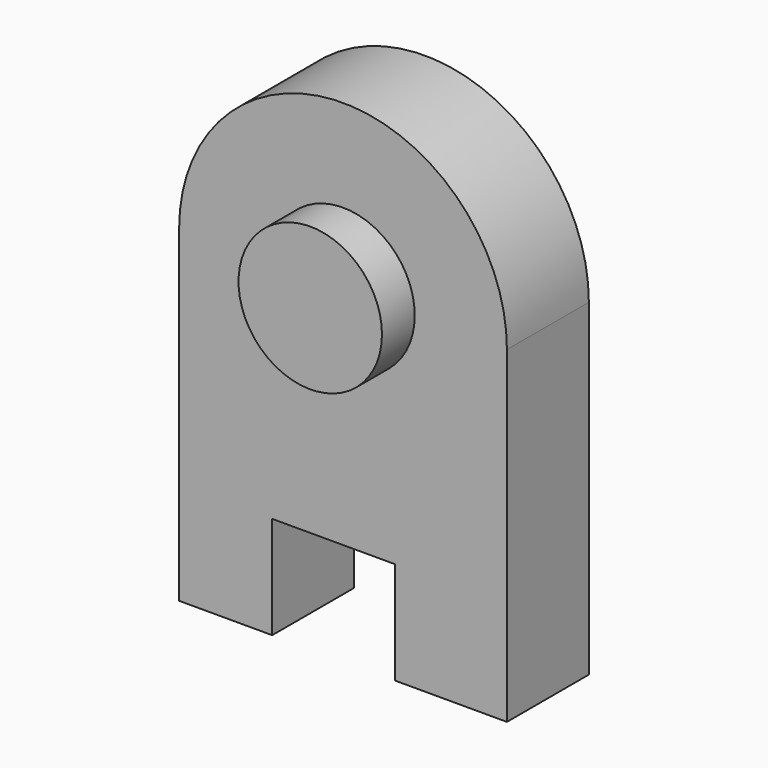
from build123d import *

# Parameters (mm, degrees)
F0_R     = 17.5
F1_DEPTH = 35
F2_DEPTH = 25


with BuildPart() as f1:
    # F0 (on Front) → F1 (new body)
    with BuildSketch(Plane.XZ):
        with Locations((0, 74.20677)):
            Circle(F0_R)
    extrude(amount=F1_DEPTH)

    # F0 (on Front) → F2 (join)
    with BuildSketch(Plane.XZ):
        with BuildLine():
            Line((-40, 74.20677), (-40, 19.20677))
            Line((-40, 19.20677), (-40, -5.79323))
            Line((-40, -5.79323), (-17.283264, -5.79323))
            Line((-17.283264, -5.79323), (-17.283264, 19.20677))
            Line((-17.283264, 19.20677), (12.716736, 19.20677))
            Line((12.716736, 19.20677), (12.716736, -5.79323))
            Line((12.716736, -5.79323), (40, -5.79323))
            Line((40, -5.79323), (40, 19.20677))
            Line((40, 19.20677), (40, 74.20677))
            ThreePointArc((40, 74.20677), (0, 114.20677), (-40, 74.20677))
        make_face()
        with Locations((0, 74.20677)):
            Circle(F0_R, mode=Mode.SUBTRACT)
    extrude(amount=F2_DEPTH)


solid = f1.part
